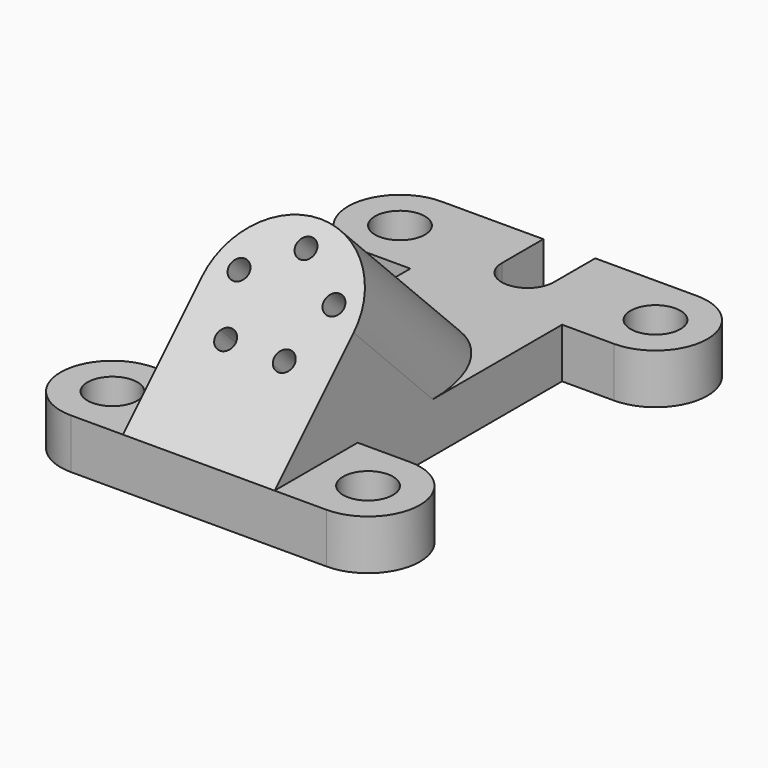
from build123d import *

# Parameters (mm, degrees)
F0_R     = 6.25
F1_DEPTH = 12.5
F3_DEPTH = 19
F6_DEPTH = 90.8642213825


with BuildPart() as f1:
    # F0 (on Top) → F1 (new body)
    with BuildSketch(Plane.XY):
        with BuildLine():
            ThreePointArc((6.5, 0), (0, -6.5), (-6.5, 0))
            Line((-6.5, 0), (-6.5, 13))
            Line((-6.5, 13), (-32, 13))
            ThreePointArc((-32, 13), (-45, 0), (-32, -13))
            Line((-32, -13), (-19, -13))
            Line((-19, -13), (-19, -77))
            Line((-19, -77), (-32, -77))
            ThreePointArc((-32, -77), (-45, -90), (-32, -103))
            Line((-32, -103), (32, -103))
            ThreePointArc((32, -103), (45, -90), (32, -77))
            Line((32, -77), (19, -77))
            Line((19, -77), (19, -13))
            Line((19, -13), (32, -13))
            ThreePointArc((32, -13), (45, 0), (32, 13))
            Line((32, 13), (6.5, 13))
            Line((6.5, 13), (6.5, 0))
        make_face()
        with Locations((-32, -90)):
            Circle(F0_R, mode=Mode.SUBTRACT)
        with Locations((32, -90)):
            Circle(F0_R, mode=Mode.SUBTRACT)
        with Locations((-32, 0)):
            Circle(F0_R, mode=Mode.SUBTRACT)
        with Locations((32, 0)):
            Circle(F0_R, mode=Mode.SUBTRACT)
    extrude(amount=F1_DEPTH)

    # F2 (on Right) → F3 (join, symmetric)
    with BuildSketch(Plane.YZ):
        Polygon((-103, 12.5), (-77, 12.5), (-53.5025253169, 12.5), (-78.2512626585, 37.2487373415), align=None)
    extrude(amount=F3_DEPTH, both=True)

    # F4 (on face) → F5 (join, up to the next surface of F1)
    with BuildSketch(Plane(origin=(0, -57.75, 57.75), x_dir=(1, 0, 0), z_dir=(0, -0.7071067812, 0.7071067812))):
        with BuildLine():
            ThreePointArc((19, -28.9931636974), (0, -9.9931636974), (-19, -28.9931636974))
            Line((-19, -28.9931636974), (-13.143277803, -28.9931636974))
            Line((-13.143277803, -28.9931636974), (-12.6607489396, -27.5080925584))
            ThreePointArc((-12.6607489396, -27.5080925584), (-14.2658477444, -24.3579087818), (-11.1156639678, -22.752809977))
            Line((-11.1156639678, -22.752809977), (-9.0817816001, -16.4931636974))
            Line((-9.0817816001, -16.4931636974), (-2.5, -16.4931636974))
            ThreePointArc((-2.5, -16.4931636974), (0, -13.9931636974), (2.5, -16.4931636974))
            Line((2.5, -16.4931636974), (9.0817816001, -16.4931636974))
            Line((9.0817816001, -16.4931636974), (11.1156639678, -22.752809977))
            ThreePointArc((11.1156639678, -22.752809977), (13.3576695844, -23.1079087818), (14.3882064537, -25.1304512677))
            ThreePointArc((14.3882064537, -25.1304512677), (13.9107489396, -26.5999143984), (12.6607489396, -27.5080925584))
            Line((12.6607489396, -27.5080925584), (13.143277803, -28.9931636974))
            Line((13.143277803, -28.9931636974), (19, -28.9931636974))
        make_face()
        with BuildLine():
            ThreePointArc((19, -28.9931636974), (0, -9.9931636974), (-19, -28.9931636974))
            Line((-19, -28.9931636974), (-13.143277803, -28.9931636974))
            Line((-13.143277803, -28.9931636974), (-12.6607489396, -27.5080925584))
            ThreePointArc((-12.6607489396, -27.5080925584), (-14.2658477444, -24.3579087818), (-11.1156639678, -22.752809977))
            Line((-11.1156639678, -22.752809977), (-9.0817816001, -16.4931636974))
            Line((-9.0817816001, -16.4931636974), (-2.5, -16.4931636974))
            ThreePointArc((-2.5, -16.4931636974), (0, -13.9931636974), (2.5, -16.4931636974))
            Line((2.5, -16.4931636974), (9.0817816001, -16.4931636974))
            Line((9.0817816001, -16.4931636974), (11.1156639678, -22.752809977))
            ThreePointArc((11.1156639678, -22.752809977), (13.3576695844, -23.1079087818), (14.3882064537, -25.1304512677))
            ThreePointArc((14.3882064537, -25.1304512677), (13.9107489396, -26.5999143984), (12.6607489396, -27.5080925584))
            Line((12.6607489396, -27.5080925584), (13.143277803, -28.9931636974))
            Line((13.143277803, -28.9931636974), (19, -28.9931636974))
        make_face()
        with BuildLine():
            Line((-12.6607489396, -27.5080925584), (-13.143277803, -28.9931636974))
            Line((-13.143277803, -28.9931636974), (-7.5, -28.9931636974))
            ThreePointArc((-7.5, -28.9931636974), (0, -21.4931636974), (7.5, -28.9931636974))
            Line((7.5, -28.9931636974), (13.143277803, -28.9931636974))
            Line((13.143277803, -28.9931636974), (12.6607489396, -27.5080925584))
            ThreePointArc((12.6607489396, -27.5080925584), (9.510565163, -25.9029937536), (11.1156639678, -22.752809977))
            Line((11.1156639678, -22.752809977), (9.0817816001, -16.4931636974))
            Line((9.0817816001, -16.4931636974), (2.5, -16.4931636974))
            ThreePointArc((2.5, -16.4931636974), (0, -18.9931636974), (-2.5, -16.4931636974))
            Line((-2.5, -16.4931636974), (-9.0817816001, -16.4931636974))
            Line((-9.0817816001, -16.4931636974), (-11.1156639678, -22.752809977))
            ThreePointArc((-11.1156639678, -22.752809977), (-9.8656639678, -23.660988137), (-9.3882064537, -25.1304512677))
            ThreePointArc((-9.3882064537, -25.1304512677), (-10.418743323, -27.1529937536), (-12.6607489396, -27.5080925584))
        make_face()
        with BuildLine():
            ThreePointArc((7.5, -28.9931636974), (0, -21.4931636974), (-7.5, -28.9931636974))
            Line((-7.5, -28.9931636974), (7.5, -28.9931636974))
        make_face()
    extrude(until=Until.NEXT, dir=(0, 0.7071067812, -0.7071067812))

    # F4 (on face) → F6 (cut, through all)
    with BuildSketch(Plane(origin=(0, -57.75, 57.75), x_dir=(1, 0, 0), z_dir=(0, -0.7071067812, 0.7071067812))):
        with BuildLine():
            Line((2.5, -16.4931636974), (-2.5, -16.4931636974))
            ThreePointArc((-2.5, -16.4931636974), (0, -18.9931636974), (2.5, -16.4931636974))
        make_face()
        with BuildLine():
            ThreePointArc((2.5, -16.4931636974), (0, -13.9931636974), (-2.5, -16.4931636974))
            Line((-2.5, -16.4931636974), (2.5, -16.4931636974))
        make_face()
        with BuildLine():
            Line((11.1156639678, -22.752809977), (12.6607489396, -27.5080925584))
            ThreePointArc((12.6607489396, -27.5080925584), (13.9107489396, -26.5999143984), (14.3882064537, -25.1304512677))
            ThreePointArc((14.3882064537, -25.1304512677), (13.3576695844, -23.1079087818), (11.1156639678, -22.752809977))
        make_face()
        with BuildLine():
            ThreePointArc((11.1156639678, -22.752809977), (9.510565163, -25.9029937536), (12.6607489396, -27.5080925584))
            Line((12.6607489396, -27.5080925584), (11.1156639678, -22.752809977))
        make_face()
        with BuildLine():
            ThreePointArc((-11.1156639678, -22.752809977), (-14.2658477444, -24.3579087818), (-12.6607489396, -27.5080925584))
            Line((-12.6607489396, -27.5080925584), (-11.1156639678, -22.752809977))
        make_face()
        with BuildLine():
            Line((-11.1156639678, -22.752809977), (-12.6607489396, -27.5080925584))
            ThreePointArc((-12.6607489396, -27.5080925584), (-10.418743323, -27.1529937536), (-9.3882064537, -25.1304512677))
            ThreePointArc((-9.3882064537, -25.1304512677), (-9.8656639678, -23.660988137), (-11.1156639678, -22.752809977))
        make_face()
        with BuildLine():
            Line((-5.3247731677, -40.5753392578), (-9.3698581396, -37.6364129963))
            ThreePointArc((-9.3698581396, -37.6364129963), (-8.8167787844, -41.128418613), (-5.3247731677, -40.5753392578))
        make_face()
        with BuildLine():
            ThreePointArc((-4.8473156537, -39.1058761271), (-6.5747731677, -36.7282348363), (-9.3698581396, -37.6364129963))
            Line((-9.3698581396, -37.6364129963), (-5.3247731677, -40.5753392578))
            ThreePointArc((-5.3247731677, -40.5753392578), (-4.9696743629, -39.878418613), (-4.8473156537, -39.1058761271))
        make_face()
        with BuildLine():
            ThreePointArc((9.8473156537, -39.1058761271), (9.7249569444, -38.3333336411), (9.3698581396, -37.6364129963))
            Line((9.3698581396, -37.6364129963), (5.3247731677, -40.5753392578))
            ThreePointArc((5.3247731677, -40.5753392578), (8.1198581396, -41.4835174178), (9.8473156537, -39.1058761271))
        make_face()
        with BuildLine():
            Line((5.3247731677, -40.5753392578), (9.3698581396, -37.6364129963))
            ThreePointArc((9.3698581396, -37.6364129963), (5.8778525229, -37.0833336411), (5.3247731677, -40.5753392578))
        make_face()
    extrude(amount=-F6_DEPTH, mode=Mode.SUBTRACT)


solid = f1.part
